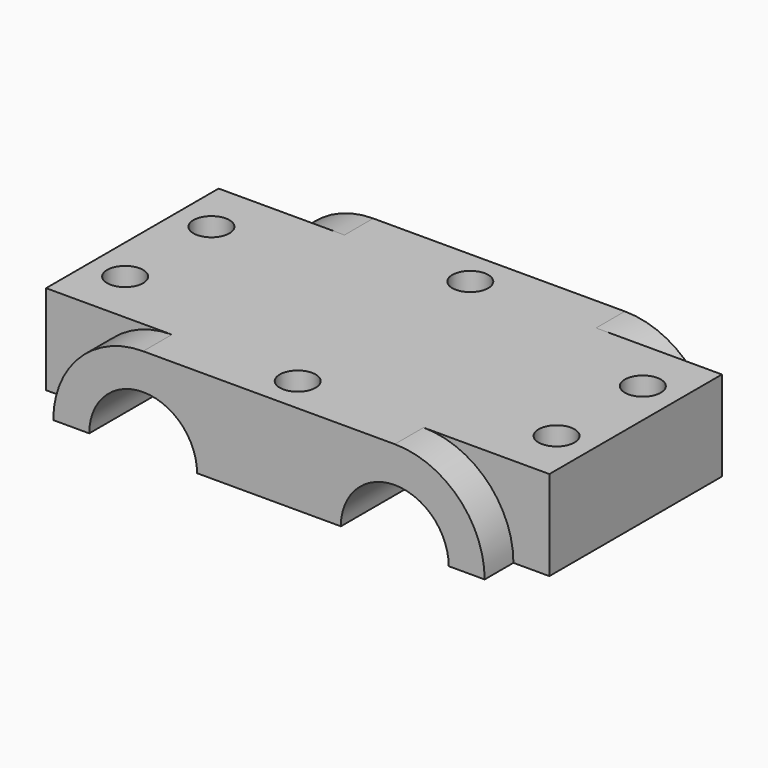
from build123d import *

# Parameters (mm, degrees)
F1_DEPTH = 15
F3_DEPTH = 5
F6_D     = 5


with BuildPart() as f1:
    # F0 (on Front) → F1 (new body, symmetric)
    with BuildSketch(Plane.XZ):
        with BuildLine():
            Line((35, 6.25), (-35, 6.25))
            Line((-35, 6.25), (-35, -6.25))
            Line((-35, -6.25), (-25, -6.25))
            ThreePointArc((-25, -6.25), (-17.5, 1.25), (-10, -6.25))
            Line((-10, -6.25), (10, -6.25))
            ThreePointArc((10, -6.25), (17.5, 1.25), (25, -6.25))
            Line((25, -6.25), (35, -6.25))
            Line((35, -6.25), (35, 6.25))
        make_face()
    extrude(amount=F1_DEPTH, both=True)

    # F2 (on face) → F3 (join)
    with BuildSketch(Plane.XZ.offset(15)):
        with BuildLine():
            ThreePointArc((-17.5, 6.25), (-26.338835, 2.588835), (-30, -6.25))
            Line((-30, -6.25), (-25, -6.25))
            ThreePointArc((-25, -6.25), (-17.5, 1.25), (-10, -6.25))
            Line((-10, -6.25), (10, -6.25))
            ThreePointArc((10, -6.25), (17.5, 1.25), (25, -6.25))
            Line((25, -6.25), (30, -6.25))
            ThreePointArc((30, -6.25), (26.338835, 2.588835), (17.5, 6.25))
            Line((17.5, 6.25), (-17.5, 6.25))
        make_face()
    extrude(amount=F3_DEPTH)

    # F4: F1 across plane


with BuildPart() as f1_1:
    add(f1.part)
    add(f1.part.mirror(Plane.XZ))

    # F6 (through all)
    with Locations(Plane(origin=(0, 0, -6.25), x_dir=(1, 0, 0), z_dir=(0, 0, -1))):
        with Locations((-30, 7.5), (-30, -7.5), (0, 15), (0, -15), (30, 7.5), (30, -7.5)):
            Hole(F6_D / 2)


solid = f1_1.part
